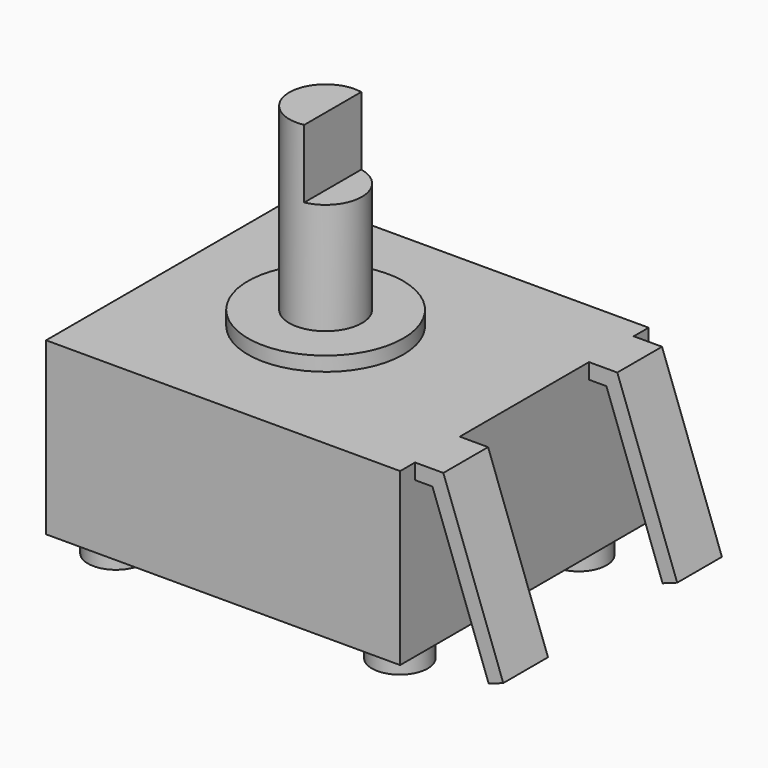
from build123d import *

# Parameters (mm, degrees)
F0_W           = 5.7
F0_H           = 5
F1_DEPTH       = 2.75
F2_R           = 1.25
F2_R_2         = 0.585
F3_DEPTH       = 0.23
F4_DEPTH       = 3.12
F6_DEPTH       = 1.1
F7_R           = 0.45
F8_DEPTH       = 0.37
F10_DEPTH      = 2.2
F10_DEPTH_BACK = 2.2
F11_W          = 1.42
F11_H          = 2.75
F12_DEPTH      = 1.3
F12_DEPTH_BACK = 1.3


with BuildPart() as f1:
    # F0 (on Top) → F1 (new body)
    with BuildSketch(Plane.XY):
        with Locations((0.35, 0)):
            Rectangle(F0_W, F0_H)
    extrude(amount=-F1_DEPTH)

    # F2 (on face) → F3 (join)
    with BuildSketch(Plane.XY):
        Circle(F2_R)
        Circle(F2_R_2, mode=Mode.SUBTRACT)
    extrude(amount=F3_DEPTH)

    # F4 (add): a face of the model
    f4_faces = [f1.faces().sort_by_distance(p)[0] for p in [
        (0, 0, 0),
    ]]
    extrude(f4_faces, amount=F4_DEPTH)

    # F5 (on face) → F6 (cut)
    with BuildSketch(Plane.XY.offset(3.12)):
        with BuildLine():
            ThreePointArc((0.115, -0.573585216), (0.585, 0), (0.115, 0.573585216))
            Line((0.115, 0.573585216), (0.115, -0.573585216))
        make_face()
    extrude(amount=-F6_DEPTH, mode=Mode.SUBTRACT)

    # F7 (on face) → F8 (join)
    with BuildSketch(Plane(origin=(0, 0, -2.75), x_dir=(1, 0, 0), z_dir=(0, 0, -1))):
        with Locations((2.635, 1.8)):
            Circle(F7_R)
        with Locations((-1.935, 1.8)):
            Circle(F7_R)
        with Locations((-1.935, -1.8)):
            Circle(F7_R)
        with Locations((2.635, -1.8)):
            Circle(F7_R)
    extrude(amount=F8_DEPTH)

    # F9 (on Front) → F10 (join, two sides)
    with BuildSketch(Plane.XZ) as f10_sk:
        Polygon((3.6556336897, 0), (3.2, 0), (3.2, -0.25), (3.4802363597, -0.25), (4.3849187925, -2.75), (4.62, -2.6649304645), align=None)
    extrude(amount=F10_DEPTH)
    extrude(f10_sk.sketch, amount=-F10_DEPTH_BACK)

    # F11 (on Front) → F12 (cut, two sides)
    with BuildSketch(Plane.XZ) as f12_sk:
        with Locations((3.91, -1.375)):
            Rectangle(F11_W, F11_H)
    extrude(amount=-F12_DEPTH, mode=Mode.SUBTRACT)
    extrude(f12_sk.sketch, amount=F12_DEPTH_BACK, mode=Mode.SUBTRACT)


solid = f1.part
